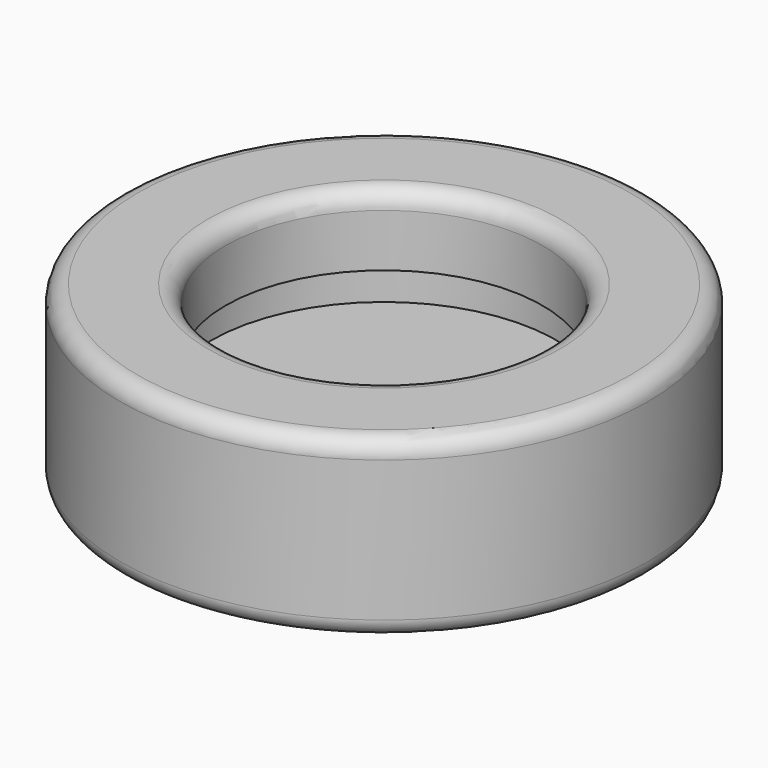
from build123d import *

# Parameters (mm, degrees)
F2_R = 1
F3_R = 1
F4_R = 1


with BuildPart() as f1:
    # F0 (on Front) → F1 (revolve)
    with BuildSketch(Plane.XZ):
        Polygon((-15, 0), (0, 0), (0, 4), (-9.8, 4), (-9.8, 6), (-9, 6), (-9, 10), (-15, 10), align=None)
    revolve(axis=Axis((0, 0, 2), (0, 0, -1)))

    # F2
    f2_edges = [f1.edges().sort_by_distance(p)[0] for p in [
        (15, 0, 10),
    ]]
    fillet(f2_edges, radius=F2_R)

    # F3
    f3_edges = [f1.edges().sort_by_distance(p)[0] for p in [
        (9, 0, 10),
    ]]
    fillet(f3_edges, radius=F3_R)

    # F4
    f4_edges = [f1.edges().sort_by_distance(p)[0] for p in [
        (15, 0, 0),
    ]]
    fillet(f4_edges, radius=F4_R)


solid = f1.part
